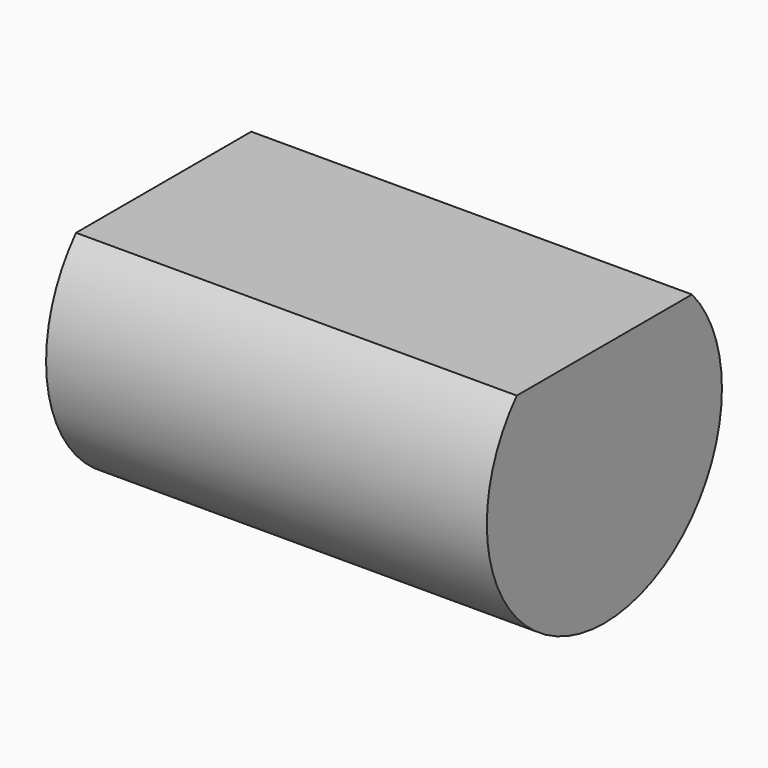
from build123d import *

# Parameters (mm, degrees)
F1_DEPTH = 182.88


with BuildPart() as f1:
    # F0 (on Right) → F1 (new body)
    with BuildSketch(Plane.YZ):
        with BuildLine():
            ThreePointArc((-45.436901, 40.64), (-55.648612, -24.886816), (0, -60.96))
            Line((0, -60.96), (0, 40.64))
            Line((0, 40.64), (-45.436901, 40.64))
        make_face()
        with BuildLine():
            ThreePointArc((0, -60.96), (43.105229, -43.105229), (60.96, 0))
            ThreePointArc((60.96, 0), (56.947147, 21.751875), (45.436901, 40.64))
            Line((45.436901, 40.64), (0, 40.64))
            Line((0, 40.64), (0, -60.96))
        make_face()
    extrude(amount=F1_DEPTH)


solid = f1.part
